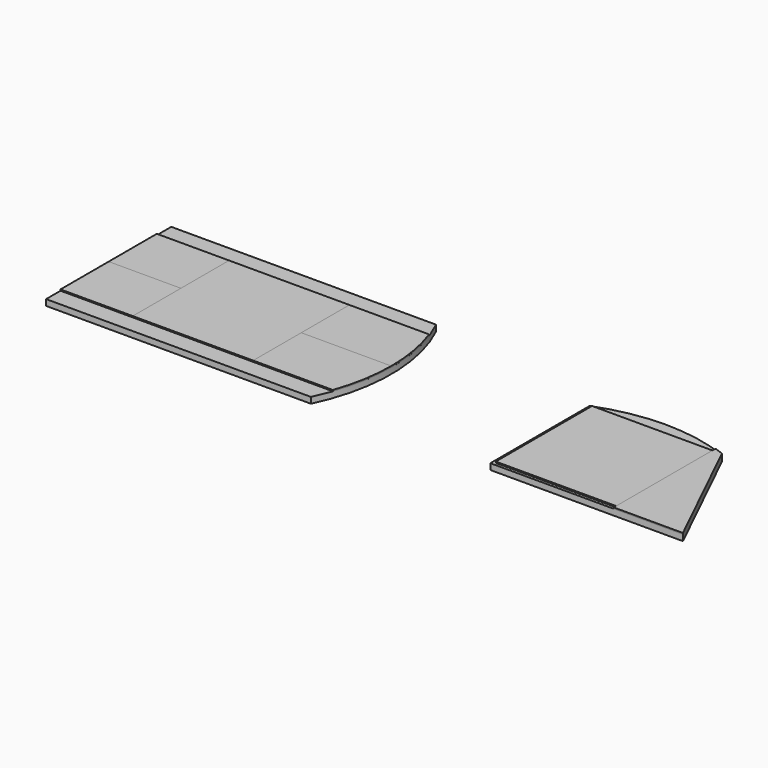
from build123d import *

# Parameters (mm, degrees)
F0_W      = 22
F0_H      = 13
F1_DEPTH  = 0.5
F2_W      = 6
F2_H      = 5
F4_DEPTH  = 0.1
F5_DEPTH  = 0.1
F6_DEPTH  = 0.1
F7_DEPTH  = 0.1
F8_DEPTH  = 0.1
F3_W      = 10
F3_H      = 10
F9_DEPTH  = 0.1
F10_DEPTH = 0.1


with BuildPart() as f1:
    # F0 (on Top) → F1 (new body)
    with BuildSketch(Plane.XY):
        with Locations((-15.15007, 6.5)):
            Rectangle(F0_W, F0_H)
        with BuildLine():
            ThreePointArc((-4.15007, 0), (-2.668576, 6.5), (-4.15007, 13))
            Line((-4.15007, 13), (-4.15007, 0))
        make_face()
        with BuildLine():
            ThreePointArc((21.75837, 10.3), (16.25837, 11.344714), (10.75837, 10.3))
            Line((10.75837, 10.3), (21.75837, 10.3))
        make_face()
        Polygon((21.75837, 10.3), (10.75837, 10.3), (10.75837, 0), (26.75837, 0), align=None)
    extrude(amount=F1_DEPTH)


with BuildPart() as f4:
    # F2 (on face) → F4 (new body)
    with BuildSketch(Plane.XY.offset(0.5)):
        with Locations((-23.15007, 4)):
            Rectangle(F2_W, F2_H)
    extrude(amount=F4_DEPTH)


with BuildPart() as f5:
    # F2 (on face) → F5 (new body)
    with BuildSketch(Plane.XY.offset(0.5)):
        with Locations((-23.15007, 9)):
            Rectangle(F2_W, F2_H)
    extrude(amount=F5_DEPTH)


with BuildPart() as f6:
    # F2 (on face) → F6 (new body)
    with BuildSketch(Plane.XY.offset(0.5)):
        Polygon((-20.15007, 1.5), (-10.15007, 1.5), (-10.15007, 6.5), (-10.15007, 11.5), (-20.15007, 11.5), (-20.15007, 6.5), align=None)
    extrude(amount=F6_DEPTH)


with BuildPart() as f7:
    # F2 (on face) → F7 (new body)
    with BuildSketch(Plane.XY.offset(0.5)):
        with BuildLine():
            Line((-10.15007, 6.5), (-10.15007, 1.5))
            Line((-10.15007, 1.5), (-3.526441, 1.5))
            ThreePointArc((-3.526441, 1.5), (-2.884598, 3.96347), (-2.668576, 6.5))
            Line((-2.668576, 6.5), (-10.15007, 6.5))
        make_face()
    extrude(amount=F7_DEPTH)


with BuildPart() as f8:
    # F2 (on face) → F8 (new body)
    with BuildSketch(Plane.XY.offset(0.5)):
        with BuildLine():
            Line((-10.15007, 11.5), (-10.15007, 6.5))
            Line((-10.15007, 6.5), (-2.668576, 6.5))
            ThreePointArc((-2.668576, 6.5), (-2.884598, 9.03653), (-3.526441, 11.5))
            Line((-3.526441, 11.5), (-10.15007, 11.5))
        make_face()
    extrude(amount=F8_DEPTH)


with BuildPart() as f9:
    # F3 (on face) → F9 (new body)
    with BuildSketch(Plane.XY.offset(0.5)):
        with Locations((16.00837, 5.25)):
            Rectangle(F3_W, F3_H)
    extrude(amount=F9_DEPTH)


with BuildPart() as f10:
    # F3 (on face) → F10 (new body)
    with BuildSketch(Plane.XY.offset(0.5)):
        with BuildLine():
            Line((21.00837, 10.25), (21.00837, 0.25))
            Line((21.00837, 0.25), (21.00837, 0))
            Line((21.00837, 0), (26.75837, 0))
            Line((26.75837, 0), (21.75837, 10.3))
            ThreePointArc((21.75837, 10.3), (21.385184, 10.441373), (21.00837, 10.572768))
            Line((21.00837, 10.572768), (21.00837, 10.25))
        make_face()
    extrude(amount=F10_DEPTH)


solid = Compound([f1.part, f4.part, f5.part, f6.part, f7.part, f8.part, f9.part, f10.part])
